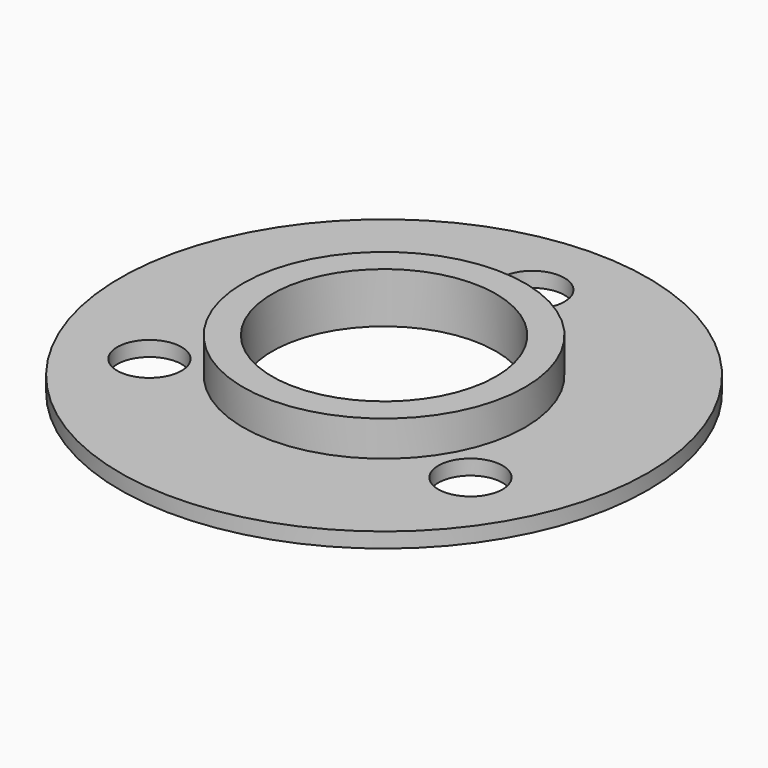
from build123d import *

# Parameters (mm, degrees)
F0_R     = 35.56
F0_R_2   = 4.3307
F1_DEPTH = 2.032
F2_R     = 18.9865
F3_DEPTH = 4.7625
F4_R     = 15.0749
F5_DEPTH = 6.7945


with BuildPart() as f1:
    # F0 (on Top) → F1 (new body)
    with BuildSketch(Plane.XY):
        Circle(F0_R)
        with Locations((-21.623095, -12.4841)):
            Circle(F0_R_2, mode=Mode.SUBTRACT)
        with Locations((21.623095, -12.4841)):
            Circle(F0_R_2, mode=Mode.SUBTRACT)
        with Locations((0, 24.9682)):
            Circle(F0_R_2, mode=Mode.SUBTRACT)
    extrude(amount=F1_DEPTH)

    # F2 (on face) → F3 (join)
    with BuildSketch(Plane.XY.offset(2.032)):
        Circle(F2_R)
    extrude(amount=F3_DEPTH)

    # F4 (on face) → F5 (cut, through all)
    with BuildSketch(Plane.XY.offset(6.7945)):
        Circle(F4_R)
    extrude(amount=-F5_DEPTH, mode=Mode.SUBTRACT)


solid = f1.part
